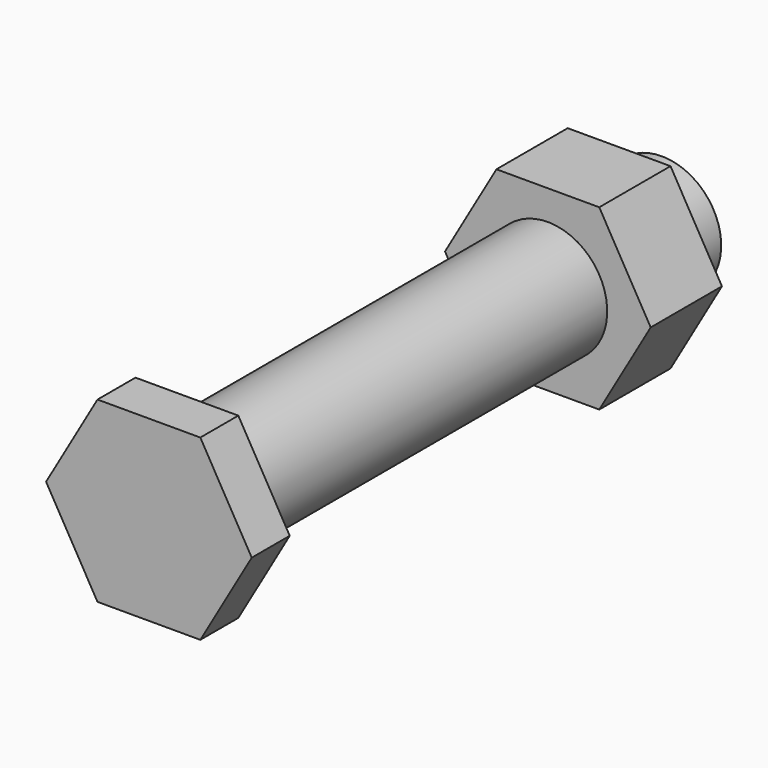
from build123d import *

# Parameters (mm, degrees)
F1_DEPTH = 8
F2_R     = 10
F3_DEPTH = 100
F6_DEPTH = 15


with BuildPart() as f1:
    # F0 (on Front) → F1 (new body)
    with BuildSketch(Plane.XZ):
        Polygon((17.320508, 0), (8.660254, 15), (-8.660254, 15), (-17.320508, 0), (-8.660254, -15), (8.660254, -15), align=None)
    extrude(amount=F1_DEPTH)

    # F2 (on face) → F3 (join)
    with BuildSketch(Plane(origin=(0, 0, 0), x_dir=(-1, 0, 0), z_dir=(0, 1, 0))):
        Circle(F2_R)
    extrude(amount=F3_DEPTH)


with BuildPart() as f6:
    # F5 (on offset) → F6 (new body)
    with BuildSketch(Plane.XZ.offset(-76)):
        Polygon((-17.320508, 0), (-8.660254, -15), (8.660254, -15), (17.320508, 0), (8.660254, 15), (-8.660254, 15), align=None)
    extrude(amount=-F6_DEPTH)

    # F7: cut F1
    add(f1.part, mode=Mode.SUBTRACT)


solid = Compound([f1.part, f6.part])
